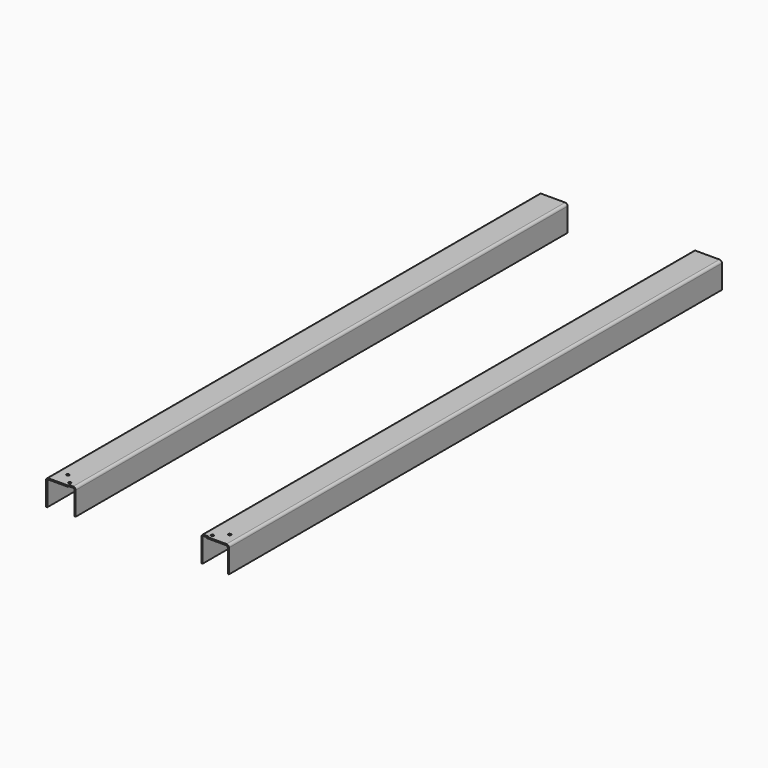
from build123d import *

# Parameters (mm, degrees)
F1_DEPTH = 1996
F3_W     = 4
F3_H     = 87
F4_DEPTH = 21.409
F6_R     = 4.5
F5_R     = 4.5
F7_DEPTH = 4


with BuildPart() as f1:
    # F0 (on Front) → F1 (new body)
    with BuildSketch(Plane.XZ):
        with BuildLine():
            Line((-46.25, 34), (-46.25, -42))
            Line((-46.25, -42), (-42.25, -42))
            Line((-42.25, -42), (-42.25, 34))
            ThreePointArc((-42.25, 34), (-41.078427, 36.828427), (-38.25, 38))
            Line((-38.25, 38), (38.25, 38))
            ThreePointArc((38.25, 38), (41.078427, 36.828427), (42.25, 34))
            Line((42.25, 34), (42.25, -42))
            Line((42.25, -42), (46.25, -42))
            Line((46.25, -42), (46.25, 34))
            ThreePointArc((46.25, 34), (43.906854, 39.656854), (38.25, 42))
            Line((38.25, 42), (-38.25, 42))
            ThreePointArc((-38.25, 42), (-43.906854, 39.656854), (-46.25, 34))
        make_face()
    extrude(amount=-F1_DEPTH)

    # F3 (on face) → F4 (cut)
    with BuildSketch(Plane(origin=(-46.25, 0, 0), x_dir=(0, -1, 0), z_dir=(-1, 0, 0))):
        with Locations((-2, 0.370724)):
            Rectangle(F3_W, F3_H)
    extrude(amount=-F4_DEPTH, mode=Mode.SUBTRACT)

    # F6 (on face) + F5 (on face) → F7 (cut)
    with BuildSketch(Plane(origin=(0, 0, 38), x_dir=(1, 0, 0), z_dir=(0, 0, -1))):
        with Locations((12.063, -45.5)):
            Circle(F6_R)
    with BuildSketch(Plane(origin=(0, 0, 38), x_dir=(1, 0, 0), z_dir=(0, 0, -1))):
        with Locations((-18.92, -14.5)):
            Circle(F5_R)
    extrude(amount=-F7_DEPTH, mode=Mode.SUBTRACT)


with BuildPart() as f9_1:
    # F9: instance of F1
    add(f1.part.mirror(Plane.YZ.offset(-250)))


solid = Compound([f1.part, f9_1.part])
